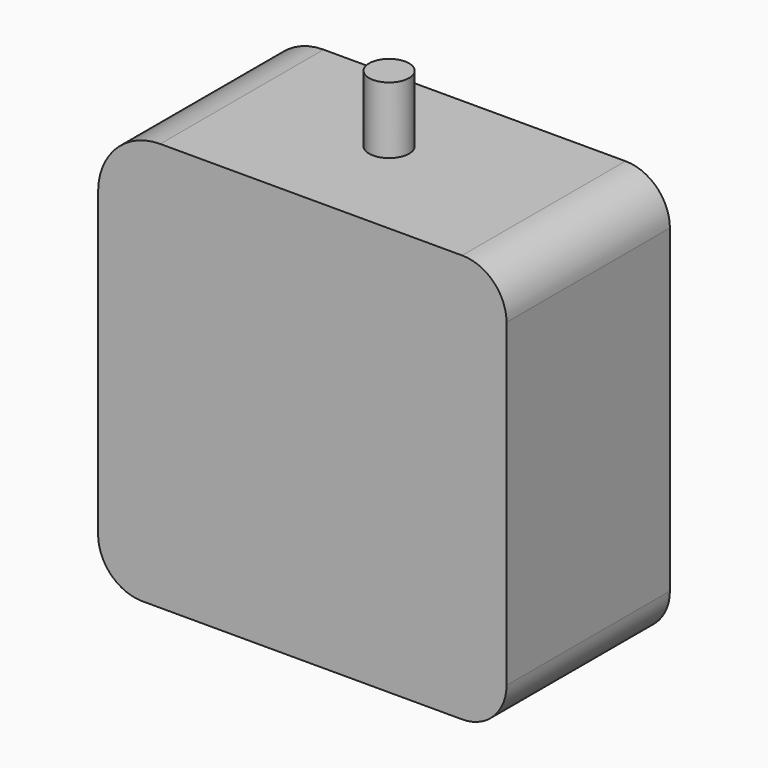
from build123d import *

# Parameters (mm, degrees)
F0_W     = 46
F0_H     = 46
F1_DEPTH = 23
F2_R     = 7
F3_R     = 5
F4_R     = 2.25
F5_DEPTH = 7.5


with BuildPart() as f1:
    # F0 (on Front) → F1 (new body)
    with BuildSketch(Plane.XZ):
        Rectangle(F0_W, F0_H)
    extrude(amount=F1_DEPTH)

    # F2
    f2_edges = [f1.edges().sort_by_distance(p)[0] for p in [
        (-23, -11.5, 23),
    ]]
    fillet(f2_edges, radius=F2_R)

    # F3
    f3_edges = [f1.edges().sort_by_distance(p)[0] for p in [
        (23, -11.5, 23),
        (23, -11.5, -23),
        (-23, -11.5, -23),
    ]]
    fillet(f3_edges, radius=F3_R)

    # F4 (on face) → F5 (join)
    with BuildSketch(Plane.XY.offset(23)):
        with Locations((0, -10.782062)):
            Circle(F4_R)
    extrude(amount=F5_DEPTH)


solid = f1.part
